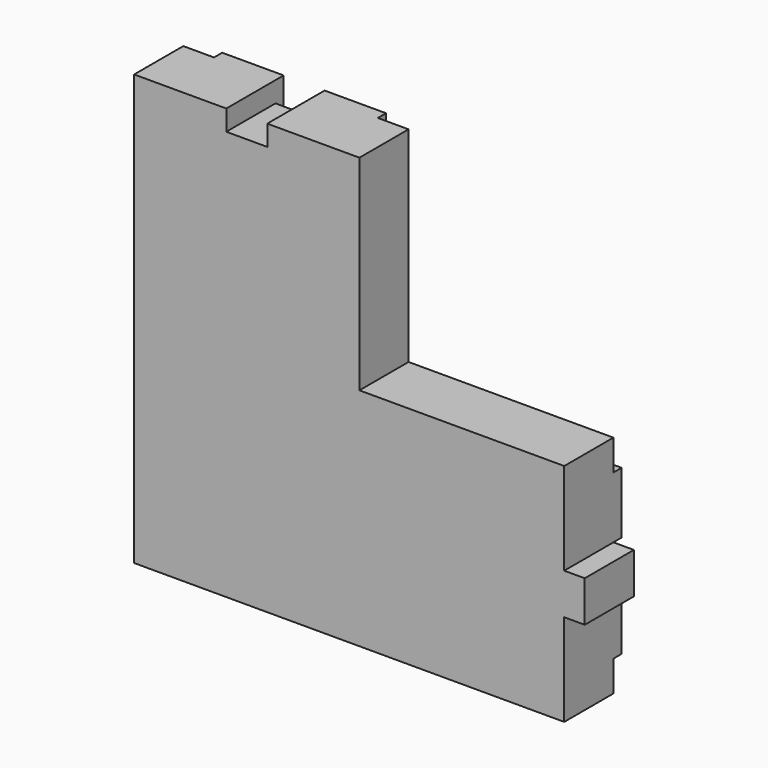
from build123d import *

# Parameters (mm, degrees)
F1_DEPTH  = 1066.8
F3_W      = 101.6
F3_H      = 50.8
F4_DEPTH  = 152.4
F5_W      = 101.6
F5_H      = 50.8
F6_DEPTH  = 177.801
F8_DEPTH  = 177.801
F10_W     = 101.6
F10_H     = 101.6
F11_DEPTH = 177.801


with BuildPart() as f1:
    # F0 (on Top) → F1 (new body)
    with BuildSketch(Plane.XY):
        Polygon((76.2, 0), (0, 0), (0, -152.4), (558.8, -152.4), (558.8, 0), (482.6, 0), (482.6, 25.4), (330.2, 25.4), (330.2, 0), (228.6, 0), (228.6, 25.4), (76.2, 25.4), align=None)
    extrude(amount=F1_DEPTH)

    # F3 (on offset) → F4 (join)
    with BuildSketch(Plane.XZ.offset(152.4)):
        with Locations((279.4, 1092.2)):
            Rectangle(F3_W, F3_H)
    extrude(amount=-F4_DEPTH)

    # F5 (on offset) → F6 (cut, through all)
    with BuildSketch(Plane.XZ.offset(152.4)):
        with Locations((279.4, 25.4)):
            Rectangle(F5_W, F5_H)
    extrude(amount=-F6_DEPTH, mode=Mode.SUBTRACT)

    # F7 (on offset) → F8 (cut, through all)
    with BuildSketch(Plane.XZ.offset(152.4)):
        Polygon((586.1058764434, 586.1058764434), (0, 0), (586.1058764434, 0), align=None)
    extrude(amount=-F8_DEPTH, mode=Mode.SUBTRACT)

    # F9: F1 across face


with BuildPart() as f1_1:
    add(f1.part)
    add(f1.part.mirror(Plane(origin=(279.4, -68.7916666667, 279.4), x_dir=(0, 1, 0), z_dir=(0.7071067812, 0, -0.7071067812))))

    # F10 (on offset) → F11 (cut, through all)
    with BuildSketch(Plane.XZ.offset(152.4)):
        with Locations((279.4, 1066.8)):
            Rectangle(F10_W, F10_H)
    extrude(amount=-F11_DEPTH, mode=Mode.SUBTRACT)


solid = f1_1.part
